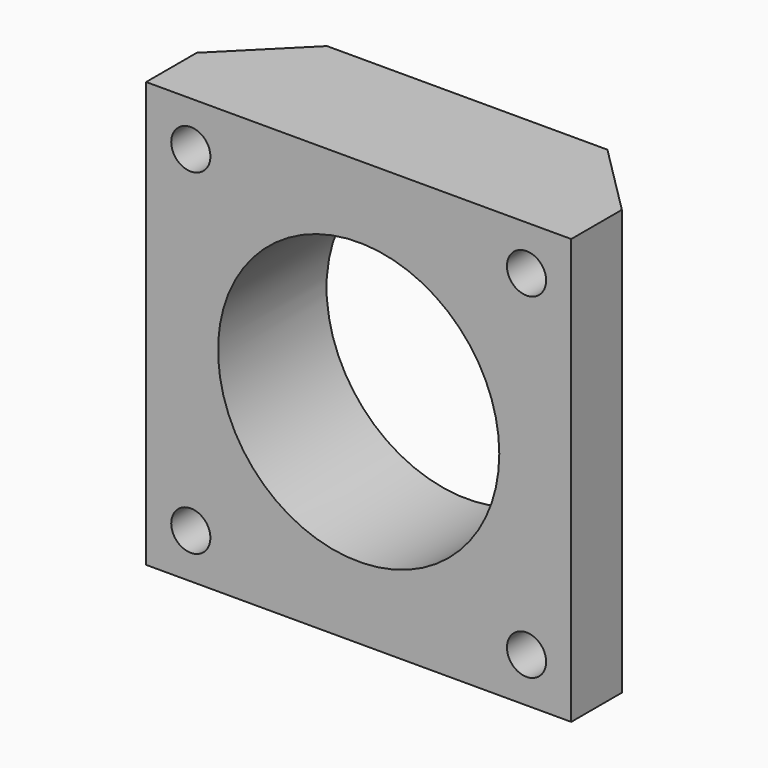
from build123d import *

# Parameters (mm, degrees)
F0_W     = 59.69
F0_H     = 59.69
F1_DEPTH = 19.05
F2_R     = 19.7430645089
F3_DEPTH = 25.4
F5_D     = 5.5
F8_DEPTH = 59.691


with BuildPart() as f1:
    # F0 (on Front) → F1 (new body)
    with BuildSketch(Plane.XZ):
        Rectangle(F0_W, F0_H)
    extrude(amount=F1_DEPTH)

    # F2 (on face) → F3 (cut)
    with BuildSketch(Plane.XZ.offset(19.05)):
        Circle(F2_R)
    extrude(amount=-F3_DEPTH, mode=Mode.SUBTRACT)

    # F5 (through all)
    with Locations(Plane.XZ.offset(19.05)):
        with Locations((-23.57, 23.57), (23.57, 23.57), (23.57, -23.57), (-23.57, -23.57)):
            Hole(F5_D / 2)

    # F7 (on face) → F8 (cut, through all)
    with BuildSketch(Plane.XY.offset(29.845)):
        Polygon((-29.845, 0), (-29.845, -10.16), (-19.685, 0), align=None)
        Polygon((19.685, 0), (29.845, -10.16), (29.845, 0), align=None)
    extrude(amount=-F8_DEPTH, mode=Mode.SUBTRACT)


solid = f1.part
